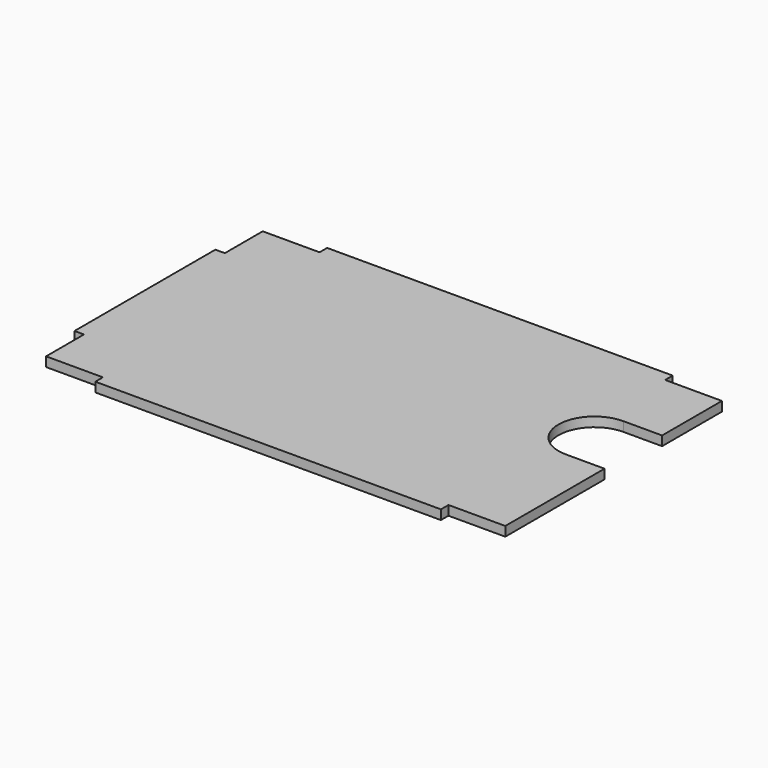
from build123d import *

# Parameters (mm, degrees)
PAD_DEPTH = 2.5


with BuildPart() as part:
    # Sketch → Pad (new body, symmetric)
    with BuildSketch(Plane.XY):
        with BuildLine():
            Line((91.25, 76.5), (-91.25, 76.5))
            Line((-91.25, 76.5), (-91.25, 71.5))
            Line((-91.25, 71.5), (-121.25, 71.5))
            Line((-121.25, 71.5), (-121.25, 46.5))
            Line((-121.25, 46.5), (-126.25, 46.5))
            Line((-126.25, 46.5), (-126.25, -46.5))
            Line((-126.25, -46.5), (-121.25, -46.5))
            Line((-121.25, -46.5), (-121.25, -71.5))
            Line((-121.25, -71.5), (-91.25, -71.5))
            Line((-91.25, -71.5), (-91.25, -76.5))
            Line((-91.25, -76.5), (91.25, -76.5))
            Line((91.25, -76.5), (91.25, -71.5))
            Line((91.25, -71.5), (121.25, -71.5))
            Line((121.25, -71.5), (121.25, -6))
            Line((100.75, -6), (121.25, -6))
            ThreePointArc((100.75, 32), (81.75, 13), (100.75, -6))
            Line((121.25, 32), (100.75, 32))
            Line((121.25, 32), (121.25, 71.5))
            Line((121.25, 71.5), (91.25, 71.5))
            Line((91.25, 71.5), (91.25, 76.5))
        make_face()
    extrude(amount=PAD_DEPTH, both=True)


solid = part.part
